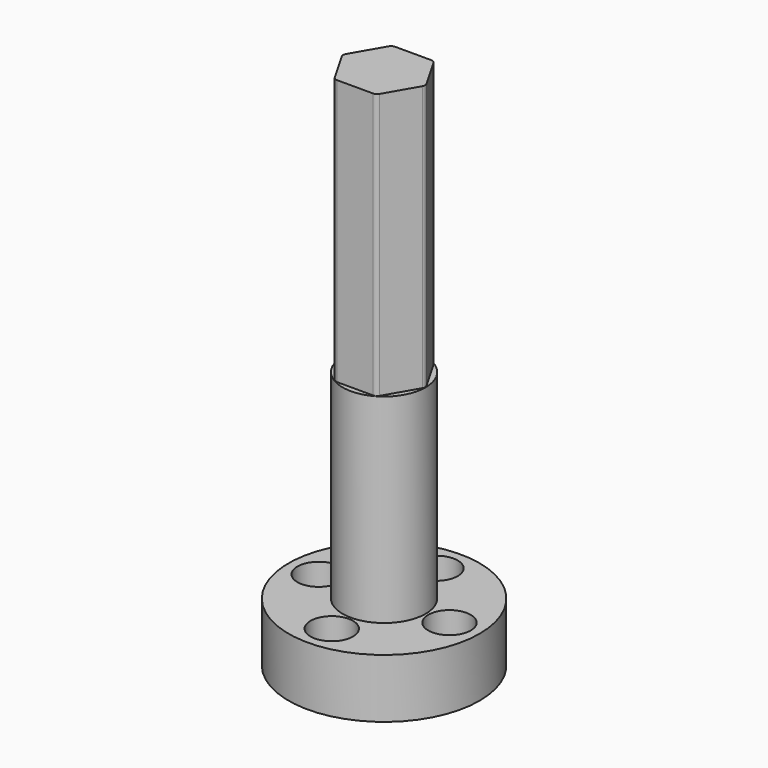
from build123d import *

# Parameters (mm, degrees)
F0_R            = 14.605
F1_DEPTH        = 9.017
F2_R            = 6.35
F3_DEPTH        = 30.48
F5_DEPTH        = 40.64
F6_R            = 8.255
F7_DEPTH        = 2.3
F8_R            = 5.06
F9_DEPTH        = 4.1
F11_D           = 3.3
F11_CBORE_D     = 6.5
F11_CBORE_DEPTH = 4.572


with BuildPart() as f1:
    # F0 (on Top) → F1 (new body)
    with BuildSketch(Plane.XY):
        Circle(F0_R)
    extrude(amount=F1_DEPTH)

    # F2 (on face) → F3 (join)
    with BuildSketch(Plane.XY.offset(9.017)):
        Circle(F2_R)
    extrude(amount=F3_DEPTH)

    # F4 (on face) → F5 (join)
    with BuildSketch(Plane.XY.offset(39.497)):
        with BuildLine():
            Line((3.416874, -5.1562), (6.173837, -0.381))
            ThreePointArc((6.173837, -0.381), (6.275926, 0), (6.173837, 0.381))
            Line((6.173837, 0.381), (3.416874, 5.1562))
            ThreePointArc((3.416874, 5.1562), (3.137963, 5.435111), (2.756963, 5.5372))
            Line((2.756963, 5.5372), (-2.756963, 5.5372))
            ThreePointArc((-2.756963, 5.5372), (-3.137963, 5.435111), (-3.416874, 5.1562))
            Line((-3.416874, 5.1562), (-6.173837, 0.381))
            ThreePointArc((-6.173837, 0.381), (-6.275926, 0), (-6.173837, -0.381))
            Line((-6.173837, -0.381), (-3.416874, -5.1562))
            ThreePointArc((-3.416874, -5.1562), (-3.137963, -5.435111), (-2.756963, -5.5372))
            Line((-2.756963, -5.5372), (2.756963, -5.5372))
            ThreePointArc((2.756963, -5.5372), (3.137963, -5.435111), (3.416874, -5.1562))
        make_face()
    extrude(amount=F5_DEPTH)

    # F6 (on face) → F7 (cut)
    with BuildSketch(Plane(origin=(0, 0, 0), x_dir=(1, 0, 0), z_dir=(0, 0, -1))):
        Circle(F6_R)
    extrude(amount=-F7_DEPTH, mode=Mode.SUBTRACT)

    # F8 (on face) → F9 (cut)
    with BuildSketch(Plane(origin=(0, 0, 0), x_dir=(1, 0, 0), z_dir=(0, 0, -1))):
        Circle(F8_R)
    extrude(amount=-F9_DEPTH, mode=Mode.SUBTRACT)

    # F11 (through all)
    with Locations(Plane.XY.offset(9.017)):
        with Locations((0, -10), (-10, 0), (0, 10), (10, 0)):
            CounterBoreHole(F11_D / 2, F11_CBORE_D / 2, F11_CBORE_DEPTH)


solid = f1.part
